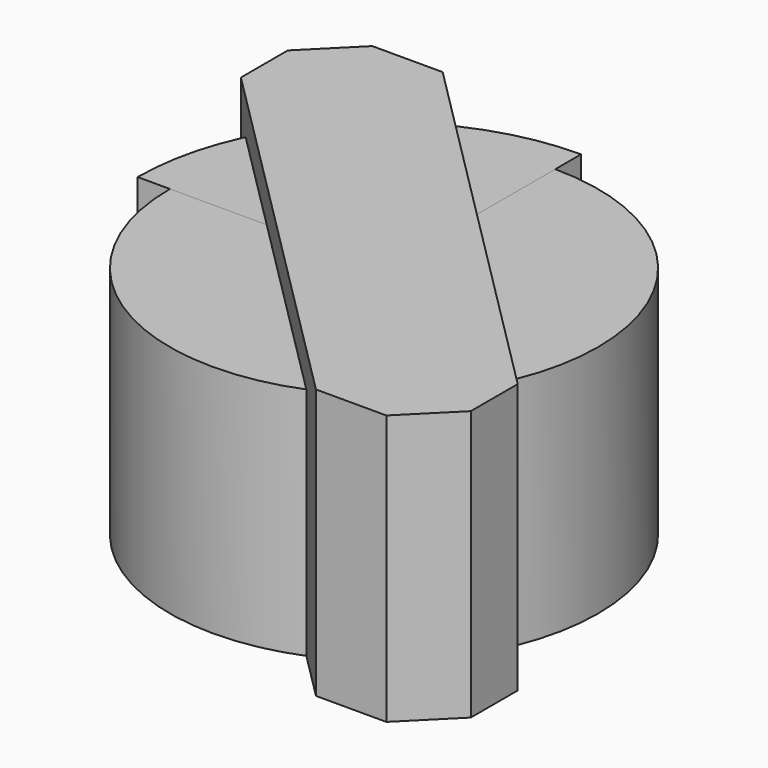
from build123d import *

# Parameters (mm, degrees)
CYLINDER005_R     = 1.65
CYLINDER005_DEPTH = 15
CYLINDER003_R     = 18.25
CYLINDER003_DEPTH = 20
CYLINDER002_R     = 2
CYLINDER002_DEPTH = 7
CYLINDER_R        = 2
CYLINDER_DEPTH    = 7
CYLINDER004_R     = 1.65
CYLINDER004_DEPTH = 15
BOX_W             = 42
BOX_H             = 41
BOX_DEPTH         = 23
CHAMFER_SIZE      = 4
CHAMFER001_SIZE   = 32
CYLINDER006_W     = 21
CYLINDER006_H     = 5
CYLINDER006_ANGLE = 90


with BuildPart() as cylinder005:
    # Cylinder005 → Cylinder005 (new body)
    with BuildSketch(Plane(origin=(15.5, -15.5, 0), x_dir=(1, 0, 0), z_dir=(0, 0, 1))):
        Circle(CYLINDER005_R)
    extrude(amount=CYLINDER005_DEPTH)


with BuildPart() as cylinder003:
    # Cylinder003 → Cylinder003 (new body)
    with BuildSketch(Plane.XY):
        Circle(CYLINDER003_R)
    extrude(amount=CYLINDER003_DEPTH)


with BuildPart() as cylinder002:
    # Cylinder002 → Cylinder002 (new body)
    with BuildSketch(Plane(origin=(-15.5, 15.5, 0), x_dir=(1, 0, 0), z_dir=(0, 0, 1))):
        Circle(CYLINDER002_R)
    extrude(amount=CYLINDER002_DEPTH)


with BuildPart() as cylinder:
    # Cylinder → Cylinder (new body)
    with BuildSketch(Plane(origin=(15.5, -15.5, 0), x_dir=(1, 0, 0), z_dir=(0, 0, 1))):
        Circle(CYLINDER_R)
    extrude(amount=CYLINDER_DEPTH)


with BuildPart() as fusion:
    # Cylinder004 → Cylinder004 (new body)
    with BuildSketch(Plane(origin=(-15.5, 15.5, 0), x_dir=(1, 0, 0), z_dir=(0, 0, 1))):
        Circle(CYLINDER004_R)
    extrude(amount=CYLINDER004_DEPTH)

    # Fusion: union Cylinder005, Cylinder003, Cylinder002, Cylinder
    add(cylinder005.part)
    add(cylinder003.part)
    add(cylinder002.part)
    add(cylinder.part)


with BuildPart() as chamfer001:
    # Box → Box (new body)
    with BuildSketch(Plane(origin=(-21, -21, 0), x_dir=(1, 0, 0), z_dir=(0, 0, 1))):
        with Locations((21, 20.5)):
            Rectangle(BOX_W, BOX_H)
    extrude(amount=BOX_DEPTH)

    # Chamfer
    chamfer_edges = [chamfer001.edges().sort_by_distance(p)[0] for p in [
        (-21, 20, 11.5),
        (21, -21, 11.5),
    ]]
    chamfer(chamfer_edges, length=CHAMFER_SIZE)

    # Chamfer001
    chamfer001_edges = [chamfer001.edges().sort_by_distance(p)[0] for p in [
        (-21, -21, 11.5),
        (21, 20, 11.5),
    ]]
    chamfer(chamfer001_edges, length=CHAMFER001_SIZE)


with BuildPart() as cylinder006:
    # Cylinder006 → Cylinder006 (revolve)
    with BuildSketch(Plane(origin=(0, 0, 15), x_dir=(0, 1, 0), z_dir=(1, 0, 0))):
        with Locations((10.5, 2.5)):
            Rectangle(CYLINDER006_W, CYLINDER006_H)
    revolve(axis=Axis((0, 0, 15), (0, 0, 1)), revolution_arc=CYLINDER006_ANGLE)


solid = Compound([fusion.part, chamfer001.part, cylinder006.part])
